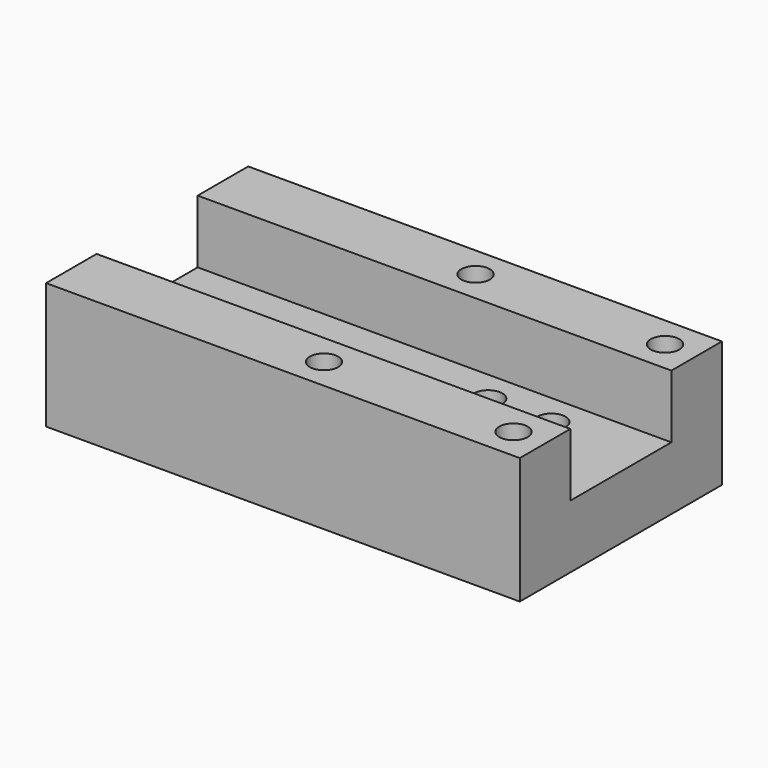
from build123d import *

# Parameters (mm, degrees)
PAD_DEPTH             = 75
SKETCH001_R           = 2.75
POCKET_DEPTH          = 40.001
SKETCH002_R           = 4.5
POCKET001_DEPTH       = 6.25
SKETCH003_R           = 4.5
POCKET002_DEPTH       = 6.25
CLONE_PLACEMENT_ANGLE = 270


with BuildPart() as part:
    # Sketch → Pad (new body, symmetric)
    with BuildSketch(Plane.XZ):
        Polygon((40, 0), (40, -40), (-40, -40), (-40, 0), (-20, 0), (-20, -20), (20, -20), (20, 0), align=None)
    extrude(amount=PAD_DEPTH, both=True)

    # Sketch001 (on Face4 of Pad) → Pocket (cut, through all)
    with BuildSketch(Plane(origin=(0, 0, 0), x_dir=(-1, 0, 0), z_dir=(0, 0, 1))):
        with Locations((-30, -65)):
            Circle(SKETCH001_R)
        with Locations((30, -65)):
            Circle(SKETCH001_R)
        with Locations((-30, -5)):
            Circle(SKETCH001_R)
        with Locations((30, -5)):
            Circle(SKETCH001_R)
        with Locations((-10, -25)):
            Circle(SKETCH001_R)
        with Locations((10, -25)):
            Circle(SKETCH001_R)
        with Locations((-10, -45)):
            Circle(SKETCH001_R)
        with Locations((10, -45)):
            Circle(SKETCH001_R)
    extrude(amount=-POCKET_DEPTH, mode=Mode.SUBTRACT)

    # Sketch002 (on Face16 of Pocket) → Pocket001 (cut)
    with BuildSketch(Plane(origin=(0, 0, 0), x_dir=(-1, 0, 0), z_dir=(0, 0, 1))):
        with Locations((-30, -65)):
            Circle(SKETCH002_R)
        with Locations((-30, -5)):
            Circle(SKETCH002_R)
        with Locations((30, -5)):
            Circle(SKETCH002_R)
        with Locations((30, -65)):
            Circle(SKETCH002_R)
    extrude(amount=-POCKET001_DEPTH, mode=Mode.SUBTRACT)

    # Sketch003 (on Face20 of Pocket001) → Pocket002 (cut)
    with BuildSketch(Plane(origin=(0, 0, -20), x_dir=(-1, 0, 0), z_dir=(0, 0, 1))):
        with Locations((-10, -45)):
            Circle(SKETCH003_R)
        with Locations((-10, -25)):
            Circle(SKETCH003_R)
        with Locations((10, -25)):
            Circle(SKETCH003_R)
        with Locations((10, -45)):
            Circle(SKETCH003_R)
    extrude(amount=-POCKET002_DEPTH, mode=Mode.SUBTRACT)


with BuildPart() as part_1:
    # Clone placement: moved
    add(part.part.moved(Location((-75, 40, 0))).rotate(Axis((-75, 40, 0), (0, 0, 1)), CLONE_PLACEMENT_ANGLE))


solid = part_1.part
